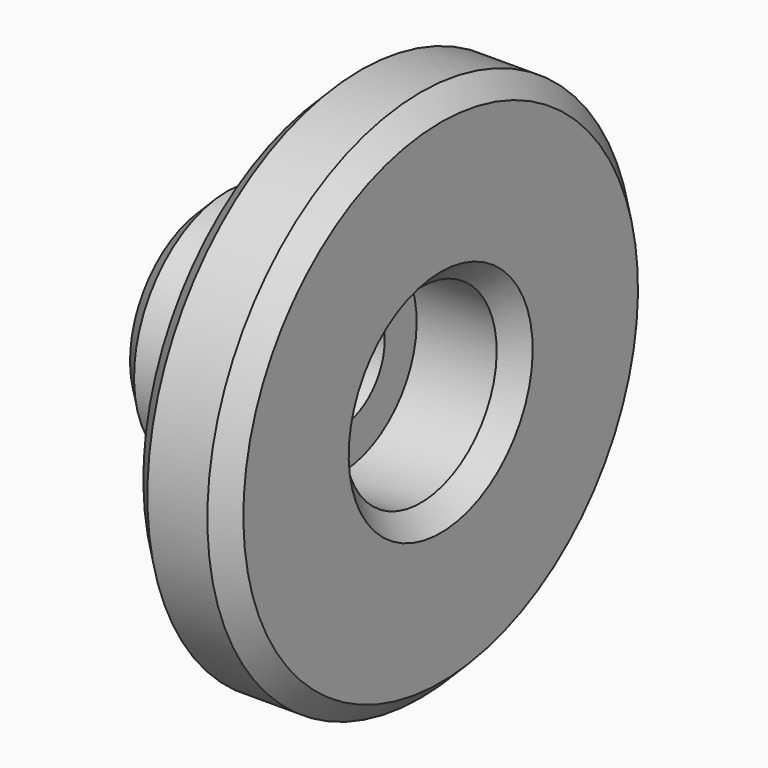
from build123d import *

# Parameters (mm, degrees)
F2_SIZE = 0.6


with BuildPart() as f1:
    # F0 (on Front) → F1 (revolve)
    with BuildSketch(Plane.XZ):
        Polygon((0, 3.5), (0, 1.65), (4, 1.65), (4, 2.85), (7, 2.85), (7, 8), (4, 8), (4, 5.5), (3, 5.5), (3, 3.5), align=None)
    revolve(axis=Axis((4.068514, 0, 0), (1, 0, 0)))

    # F2
    f2_edges = [f1.edges().sort_by_distance(p)[0] for p in [
        (7, 0, -8),
        (4, 0, -8),
        (7, 0, -2.85),
        (0, 0, -3.5),
    ]]
    chamfer(f2_edges, length=F2_SIZE)


solid = f1.part
